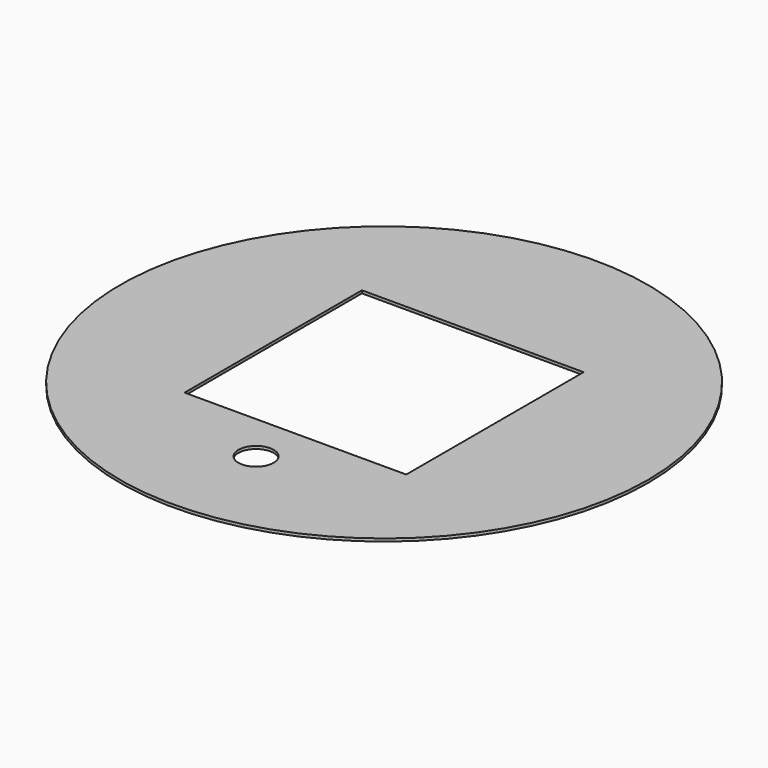
from build123d import *

# Parameters (mm, degrees)
F0_R     = 47.625
F0_R_2   = 3.175
F0_W     = 40
F0_H     = 40
F1_DEPTH = 0.5


with BuildPart() as f1:
    # F0 (on Top) → F1 (new body)
    with BuildSketch(Plane.XY):
        Circle(F0_R)
        with Locations((0, -28.877034)):
            Circle(F0_R_2, mode=Mode.SUBTRACT)
        Rectangle(F0_W, F0_H, mode=Mode.SUBTRACT)
    extrude(amount=F1_DEPTH)


solid = f1.part
